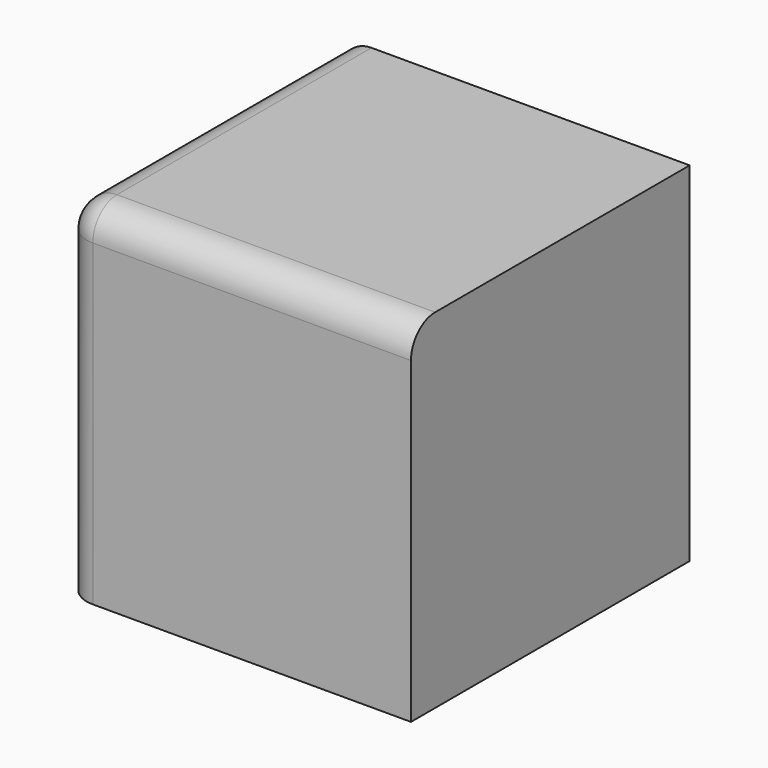
from build123d import *

# Parameters (mm, degrees)
SKETCH062_W             = 41.021
SKETCH062_H             = 41.021
PAD052_DEPTH            = 41.021
SKETCH061_W             = 25.908
SKETCH061_H             = 25.908
PAD051_DEPTH            = 6.35
FILLET006_R             = 3.556
FILLET007_R             = 3.556
BODY042_PLACEMENT_ANGLE = 90


with BuildPart() as part:
    # Sketch062 → Pad052 (new body)
    with BuildSketch(Plane.XZ):
        with Locations((20.5105, 20.5105)):
            Rectangle(SKETCH062_W, SKETCH062_H)
    extrude(amount=PAD052_DEPTH)

    # Sketch061 (on Face3 of Pad052) → Pad051 (join)
    with BuildSketch(Plane(origin=(0, 0, 0), x_dir=(1, 0, 0), z_dir=(0, 0, -1))):
        with Locations((20.507403, 20.507403)):
            Rectangle(SKETCH061_W, SKETCH061_H)
    extrude(amount=PAD051_DEPTH)

    # Fillet006
    fillet006_edges = [part.edges().sort_by_distance(p)[0] for p in [
        (7.553403, -20.507403, -6.35),
        (20.507403, -33.461403, -6.35),
        (20.507403, -7.553403, -6.35),
        (33.461403, -20.507403, -6.35),
    ]]
    fillet(fillet006_edges, radius=FILLET006_R)

    # Fillet007
    fillet007_edges = [part.edges().sort_by_distance(p)[0] for p in [
        (20.5105, -41.021, 41.021),
        (41.021, -41.021, 20.5105),
        (41.021, -20.5105, 41.021),
    ]]
    fillet(fillet007_edges, radius=FILLET007_R)


with BuildPart() as part_1:
    # Body042 placement: moved
    add(part.part.moved(Location((-2479.949241, -0.0508, 2459.1772))).rotate(Axis((-2479.949241, -0.0508, 2459.1772), (0, 0, -1)), BODY042_PLACEMENT_ANGLE))


solid = part_1.part
